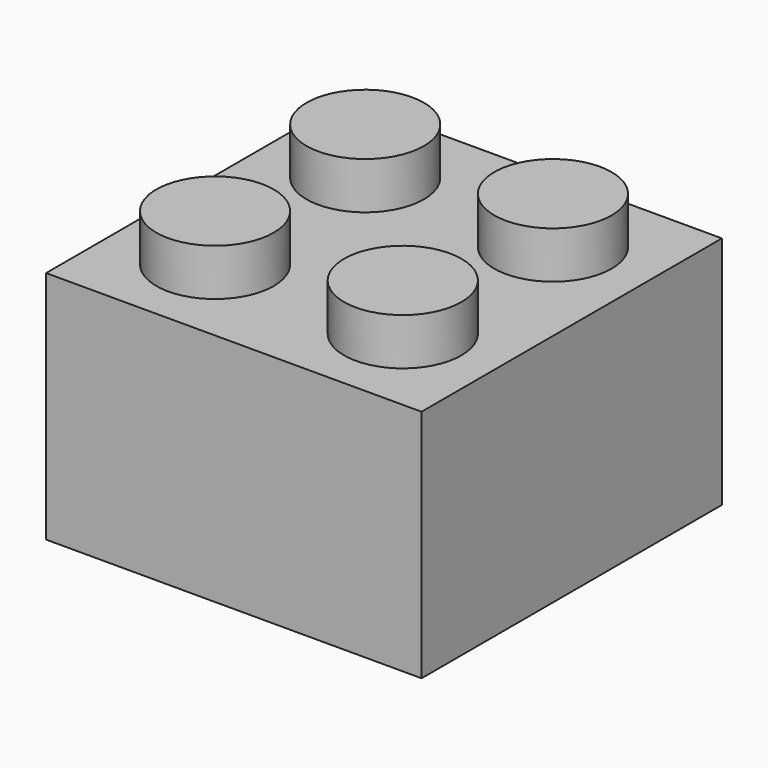
from build123d import *

# Parameters (mm, degrees)
F0_W     = 406.4
F0_H     = 406.4
F1_DEPTH = 254
F2_R     = 63.5
F3_DEPTH = 50.8
F4_T     = -25.4


with BuildPart() as f1:
    # F0 (on Top) → F1 (new body)
    with BuildSketch(Plane.XY):
        Rectangle(F0_W, F0_H)
    extrude(amount=F1_DEPTH)

    # F2 (on face) → F3 (join)
    with BuildSketch(Plane.XY.offset(254)):
        with Locations((101.6, 101.6)):
            Circle(F2_R)
        with Locations((101.6, -101.6)):
            Circle(F2_R)
        with Locations((-101.6, -101.6)):
            Circle(F2_R)
        with Locations((-101.6, 101.6)):
            Circle(F2_R)
    extrude(amount=F3_DEPTH)

    # F4
    f4_openings = [f1.faces().sort_by_distance(p)[0] for p in [
        (0, 0, 0),
    ]]
    offset(amount=F4_T, openings=f4_openings, kind=Kind.INTERSECTION)


solid = f1.part
